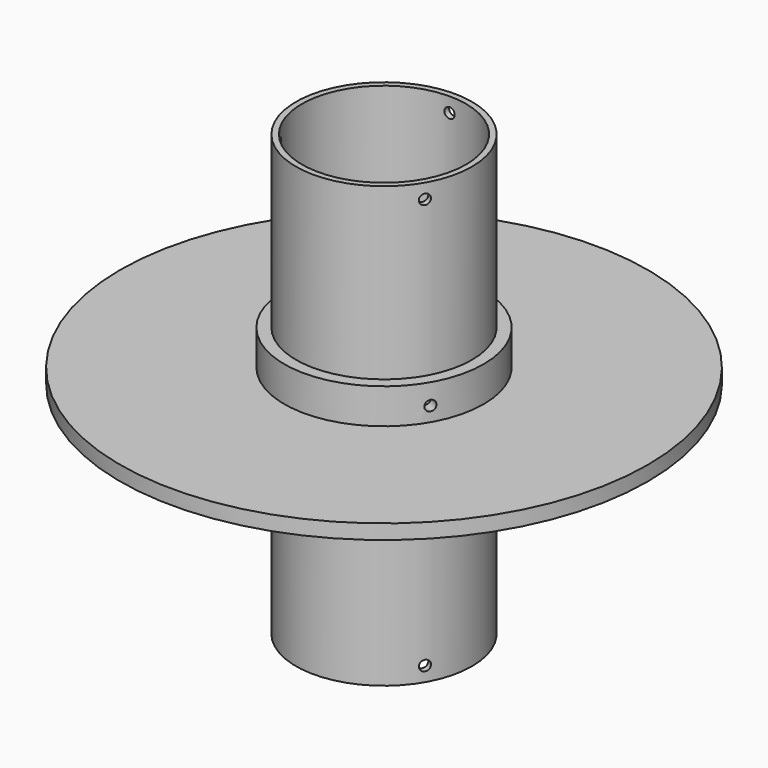
from build123d import *

# Parameters (mm, degrees)
SKETCH_R              = 90
SKETCH_R_2            = 30
PAD_DEPTH             = 5
SKETCH001_R           = 34
SKETCH001_R_2         = 30
PAD001_DEPTH          = 12
SKETCH002_R           = 1.75
POCKET_DEPTH          = 600.251919
POLARPATTERN_COUNT    = 3
SKETCH003_R           = 30
SKETCH003_R_2         = 28
PAD002_DEPTH          = 75
SKETCH004_R           = 1.75
POCKET001_DEPTH       = 374.674759
POLARPATTERN001_COUNT = 3


with BuildPart() as side:
    # Sketch → Pad (new body)
    with BuildSketch(Plane.XY):
        Circle(SKETCH_R)
        Circle(SKETCH_R_2, mode=Mode.SUBTRACT)
    extrude(amount=PAD_DEPTH)

    # Sketch001 (on Face4 of Pad) → Pad001 (join)
    with BuildSketch(Plane.XY.offset(5)):
        Circle(SKETCH001_R)
        Circle(SKETCH001_R_2, mode=Mode.SUBTRACT)
    extrude(amount=PAD001_DEPTH)

    # Sketch002 → Pocket (cut, through all)
    with BuildSketch(Plane.XZ):
        with Locations((0, 10)):
            Circle(SKETCH002_R)
    pocket = extrude(amount=-POCKET_DEPTH, mode=Mode.SUBTRACT)

    # PolarPattern: Pocket ×3 about axis
    polarpattern_axis = Axis((0, 0, 0), (0, 0, 1))
    for i in range(1, POLARPATTERN_COUNT):
        add(pocket.rotate(polarpattern_axis, i * 360 / POLARPATTERN_COUNT), mode=Mode.SUBTRACT)


with BuildPart() as roll:
    # Sketch003 → Pad002 (new body, symmetric)
    with BuildSketch(Plane.XY):
        Circle(SKETCH003_R)
        Circle(SKETCH003_R_2, mode=Mode.SUBTRACT)
    extrude(amount=PAD002_DEPTH, both=True)

    # Sketch004 → Pocket001 (cut, through all)
    with BuildSketch(Plane.XZ):
        with Locations((0, -70)):
            Circle(SKETCH004_R)
        with Locations((0, 70)):
            Circle(SKETCH004_R)
    pocket001 = extrude(amount=-POCKET001_DEPTH, mode=Mode.SUBTRACT)

    # PolarPattern001: Pocket001 ×3 about axis
    polarpattern001_axis = Axis((0, 0, 0), (0, 0, 1))
    for i in range(1, POLARPATTERN001_COUNT):
        add(pocket001.rotate(polarpattern001_axis, i * 360 / POLARPATTERN001_COUNT), mode=Mode.SUBTRACT)


solid = Compound([side.part, roll.part])
